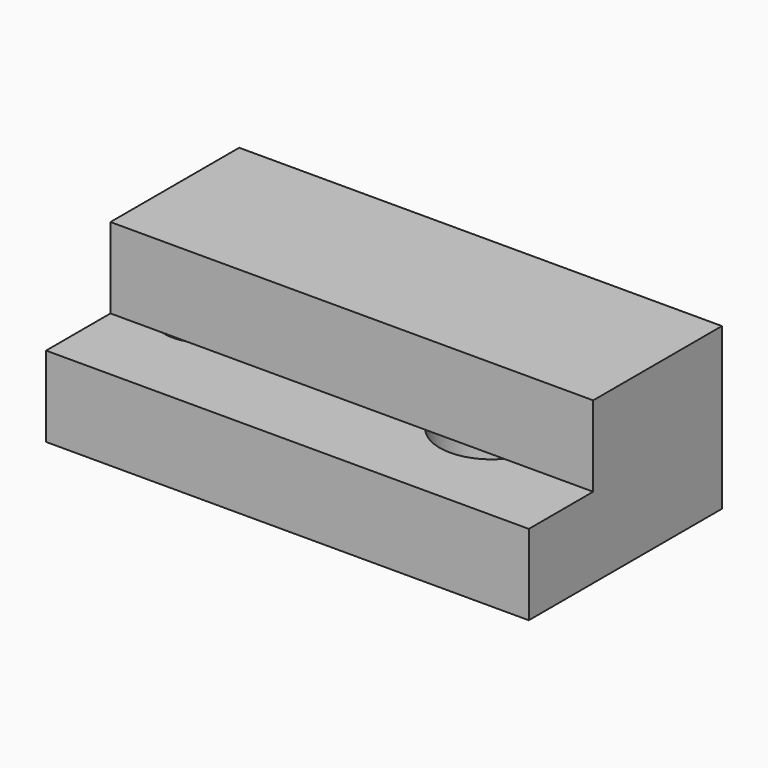
from build123d import *

# Parameters (mm, degrees)
F0_W     = 152.4
F0_H     = 76.2
F0_R     = 16.423052
F0_R_2   = 13.248597
F0_R_3   = 9.268753
F0_R_4   = 8.667061
F1_DEPTH = 25.4
F2_W     = 152.4
F2_H     = 50.8
F3_DEPTH = 25.4


with BuildPart() as f1:
    # F0 (on Top) → F1 (new body)
    with BuildSketch(Plane.XY):
        with Locations((-76.2, -43.86212)):
            Rectangle(F0_W, F0_H)
        with Locations((-40.575247, -45.885172)):
            Circle(F0_R, mode=Mode.SUBTRACT)
        with Locations((-132.270887, -43.86212)):
            Circle(F0_R_2, mode=Mode.SUBTRACT)
        with Locations((-106.095701, -42.138394)):
            Circle(F0_R_3, mode=Mode.SUBTRACT)
        with Locations((-69.502145, -42.331629)):
            Circle(F0_R_4, mode=Mode.SUBTRACT)
    extrude(amount=F1_DEPTH)

    # F2 (on face) → F3 (join)
    with BuildSketch(Plane.XY.offset(25.4)):
        with Locations((-76.2, -31.16212)):
            Rectangle(F2_W, F2_H)
    extrude(amount=F3_DEPTH)


solid = f1.part
